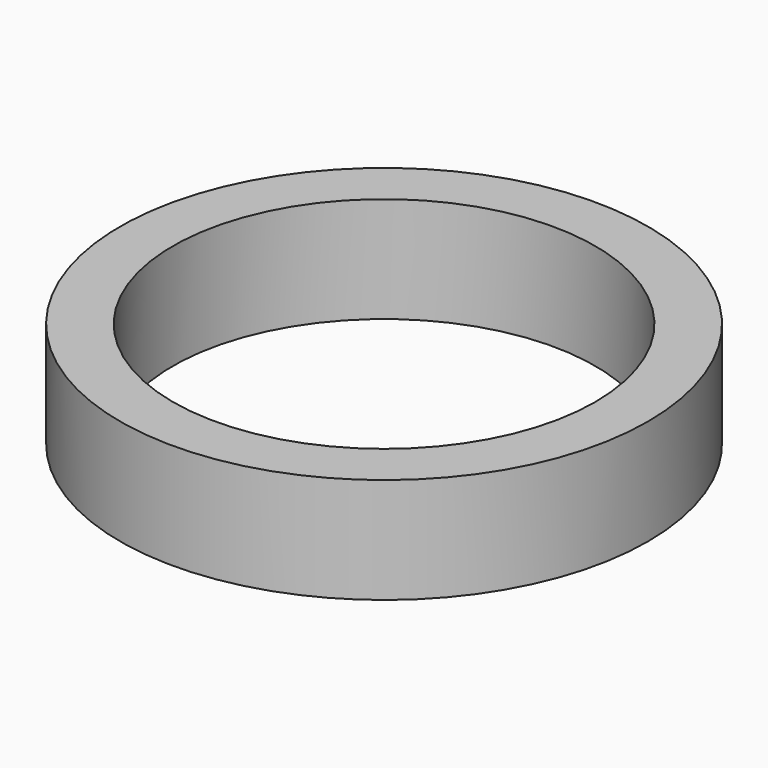
from build123d import *

# Parameters (mm, degrees)
CYLINDER006_R     = 4
CYLINDER006_DEPTH = 2
CYLINDER005_R     = 5
CYLINDER005_DEPTH = 2


with BuildPart() as cylinder006:
    # Cylinder006 → Cylinder006 (new body)
    with BuildSketch(Plane.XY.offset(-6)):
        Circle(CYLINDER006_R)
    extrude(amount=CYLINDER006_DEPTH)


with BuildPart() as cut002:
    # Cylinder005 → Cylinder005 (new body)
    with BuildSketch(Plane.XY.offset(-6)):
        Circle(CYLINDER005_R)
    extrude(amount=CYLINDER005_DEPTH)

    # Cut002: cut Cylinder006
    add(cylinder006.part, mode=Mode.SUBTRACT)


with BuildPart() as cut002_1:
    # Cut002 placement: moved
    add(cut002.part.moved(Location((0, 0, 11))))


solid = cut002_1.part
